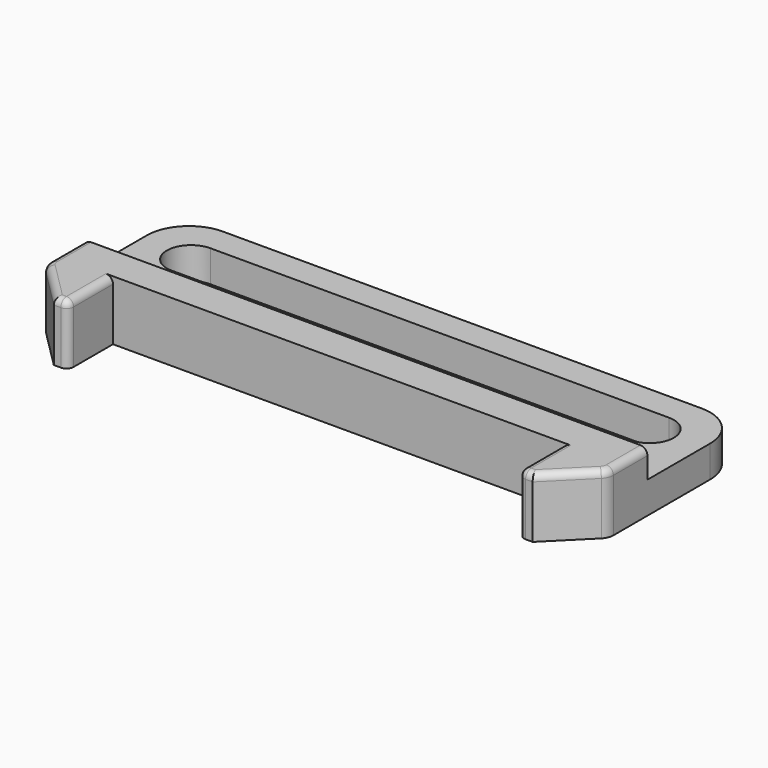
from build123d import *

# Parameters (mm, degrees)
PAD_DEPTH       = 2.25
POCKET_DEPTH    = 5
PAD009_DEPTH    = 2
FILLET003_R     = 0.5
CHAMFER001_SIZE = 3
FILLET004_R     = 1
FILLET008_R     = 0.5
FILLET009_R     = 3


with BuildPart() as part:
    # Sketch → Pad (new body)
    with BuildSketch(Plane.XY):
        Polygon((-0.972695, 0), (3.027305, 0), (3.027305, 4), (35.027305, 4), (35.027305, 0), (39.027305, 0), (39.027305, 15), (-0.972695, 15), align=None)
    extrude(amount=PAD_DEPTH)

    # Sketch002 → Pocket (cut)
    with BuildSketch(Plane.XY.offset(2.25)):
        with BuildLine():
            ThreePointArc((2.744542, 13), (1.027305, 11.282763), (2.744542, 9.565525))
            Line((2.744542, 9.565525), (35.310067, 9.565525))
            ThreePointArc((35.310067, 9.565525), (37.027305, 11.282763), (35.310067, 13))
            Line((2.744542, 13), (35.310067, 13))
        make_face()
    extrude(amount=-POCKET_DEPTH, mode=Mode.SUBTRACT)

    # Sketch012 (on Face5 of Pocket) → Pad009 (join)
    with BuildSketch(Plane.XY.offset(2.25)):
        Polygon((-0.972695, 0), (3.027305, 0), (3.027305, 4), (35.027305, 4), (35.027305, 0), (39.027305, 0), (39.027305, 6.433802), (-0.972695, 6.433802), align=None)
    extrude(amount=PAD009_DEPTH)

    # Fillet003
    fillet003_edges = [part.edges().sort_by_distance(p)[0] for p in [
        (3.027305, 0, 1.125),
        (3.027305, 0, 3.25),
        (35.027305, 0, 1.125),
        (35.027305, 0, 3.25),
    ]]
    fillet(fillet003_edges, radius=FILLET003_R)

    # Chamfer001
    chamfer001_edges = [part.edges().sort_by_distance(p)[0] for p in [
        (-0.972695, 0, 1.125),
        (-0.972695, 0, 3.25),
        (39.027305, 0, 1.125),
        (39.027305, 0, 3.25),
    ]]
    chamfer(chamfer001_edges, length=CHAMFER001_SIZE)

    # Fillet004
    fillet004_edges = [part.edges().sort_by_distance(p)[0] for p in [
        (39.027305, 3, 3.25),
        (39.027305, 3, 1.125),
        (-0.972695, 3, 3.25),
        (-0.972695, 3, 1.125),
    ]]
    fillet(fillet004_edges, radius=FILLET004_R)

    # Fillet008
    fillet008_edges = [part.edges().sort_by_distance(p)[0] for p in [
        (0.673752, 1.353553, 4.25),
        (2.277305, 0, 4.25),
        (2.880858, 0.146447, 4.25),
        (3.027305, 2.25, 4.25),
        (-0.896575, 3.03153, 4.25),
        (-0.972695, 4.924008, 4.25),
        (35.027305, 2.25, 4.25),
        (35.173752, 0.146447, 4.25),
        (35.777305, 0, 4.25),
        (37.380858, 1.353553, 4.25),
        (38.951184, 3.03153, 4.25),
        (39.027305, 4.924008, 4.25),
    ]]
    fillet(fillet008_edges, radius=FILLET008_R)

    # Fillet009
    fillet009_edges = [part.edges().sort_by_distance(p)[0] for p in [
        (-0.972695, 15, 1.125),
        (39.027305, 15, 1.125),
    ]]
    fillet(fillet009_edges, radius=FILLET009_R)


with BuildPart() as part_1:
    # Body placement: moved
    add(part.part.moved(Location((30, -12.6, 3))))


solid = part_1.part
